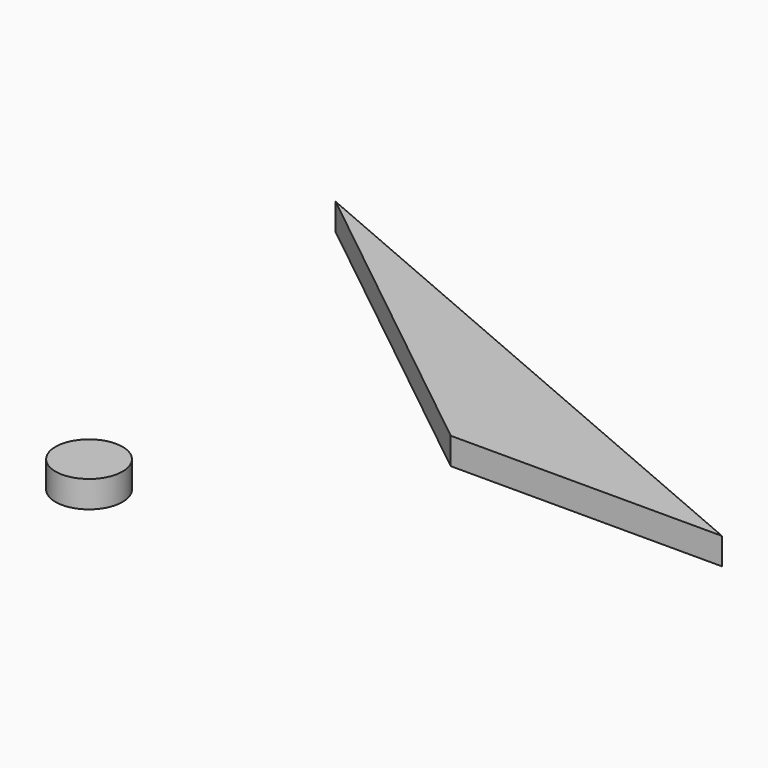
from build123d import *

# Parameters (mm, degrees)
F0_W     = 18.807444
F0_H     = 20.37473
F1_DEPTH = 2.54
F2_W     = 18.807444
F2_H     = 20.37473
F2_R     = 3.179491
F3_DEPTH = 25.4


with BuildPart() as f1:
    # F0 (on Top) → F1 (new body)
    with BuildSketch(Plane.XY):
        Polygon((-8.541713, 32.756299), (-64.337134, 56.735788), (-34.245219, 32.756299), align=None)
        with Locations((-50.231548, 8.620078)):
            Rectangle(F0_W, F0_H)
    extrude(amount=F1_DEPTH)

    # F2 (on face) → F3 (cut)
    with BuildSketch(Plane.XY.offset(2.54)):
        with Locations((-50.231548, 8.620078)):
            Rectangle(F2_W, F2_H)
        with Locations((-52.805346, 13.100585)):
            Circle(F2_R, mode=Mode.SUBTRACT)
    extrude(amount=-F3_DEPTH, mode=Mode.SUBTRACT)


solid = f1.part
